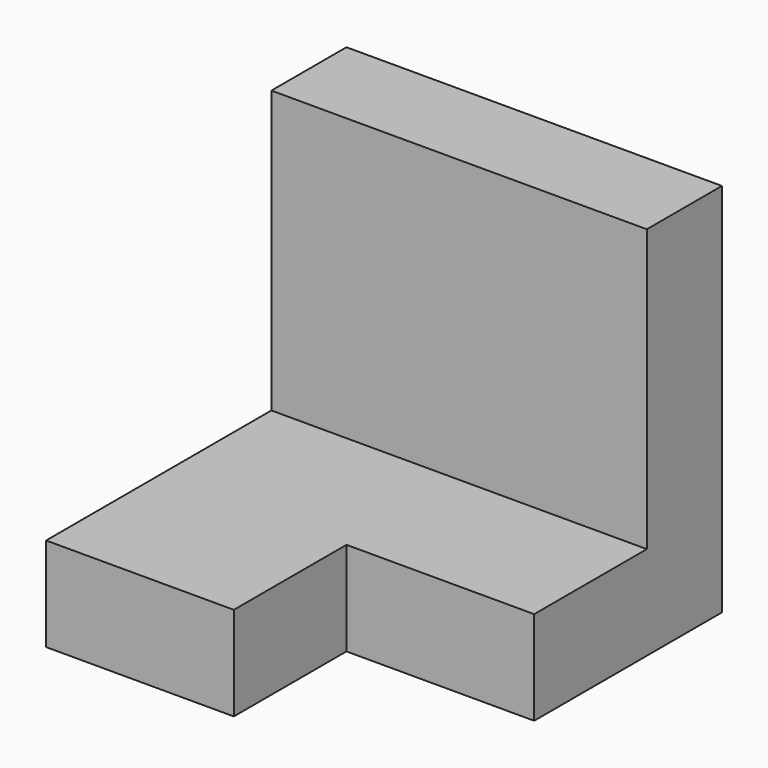
from build123d import *

# Parameters (mm, degrees)
F0_W     = 100
F0_H     = 100
F1_DEPTH = 100
F2_W     = 100
F2_H     = 75
F3_DEPTH = 75
F4_W     = 50
F4_H     = 37.5
F5_DEPTH = 25.001


with BuildPart() as f1:
    # F0 (on Top) → F1 (new body)
    with BuildSketch(Plane.XY):
        with Locations((-50, 50)):
            Rectangle(F0_W, F0_H)
    extrude(amount=-F1_DEPTH)

    # F2 (on face) → F3 (cut)
    with BuildSketch(Plane.XY):
        with Locations((-50, 37.5)):
            Rectangle(F2_W, F2_H)
    extrude(amount=-F3_DEPTH, mode=Mode.SUBTRACT)

    # F4 (on face) → F5 (cut, through all)
    with BuildSketch(Plane.XY.offset(-75)):
        with Locations((-25, 18.75)):
            Rectangle(F4_W, F4_H)
    extrude(amount=-F5_DEPTH, mode=Mode.SUBTRACT)


solid = f1.part
